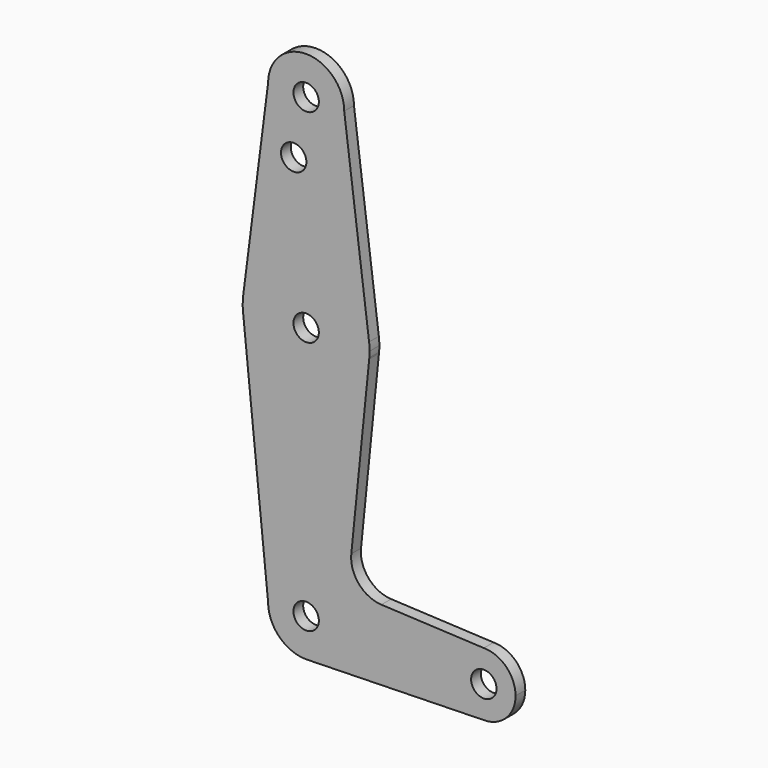
from build123d import *

# Parameters (mm, degrees)
F0_R     = 3.175
F1_DEPTH = 3.048


with BuildPart() as f1:
    # F0 (on Front) → F1 (new body)
    with BuildSketch(Plane.XZ):
        with BuildLine():
            Line((-16.87812, 3.462276), (-23.100576, 52.253986))
            ThreePointArc((-23.100576, 52.253986), (-32.625576, 42.728986), (-42.150576, 52.253986))
            Line((-42.150576, 52.253986), (-48.373033, 3.462276))
            ThreePointArc((-48.373033, 3.462276), (-32.625576, 17.328986), (-16.87812, 3.462276))
        make_face()
        with Locations((-35.746564, 37.984604)):
            Circle(F0_R, mode=Mode.SUBTRACT)
        with BuildLine():
            ThreePointArc((-42.150576, 52.253986), (-32.625576, 42.728986), (-23.100576, 52.253986))
            ThreePointArc((-23.100576, 52.253986), (-32.625576, 61.778986), (-42.150576, 52.253986))
        make_face()
        with Locations((-32.625576, 52.253986)):
            Circle(F0_R, mode=Mode.SUBTRACT)
        with BuildLine():
            ThreePointArc((-16.750576, 1.453986), (-16.782494, 2.460154), (-16.87812, 3.462276))
            ThreePointArc((-16.87812, 3.462276), (-32.625576, 17.328986), (-48.373033, 3.462276))
            ThreePointArc((-48.373033, 3.462276), (-48.499244, 1.659653), (-48.419779, -0.145635))
            ThreePointArc((-48.419779, -0.145635), (-32.695877, -14.420858), (-16.846161, -0.285457))
            Line((-16.846161, -0.285457), (-16.817302, 0))
            ThreePointArc((-16.817302, 0), (-16.767267, 0.726228), (-16.750576, 1.453986))
        make_face()
        with Locations((-32.625576, 1.453986)):
            Circle(F0_R, mode=Mode.SUBTRACT)
        with BuildLine():
            ThreePointArc((-16.846161, -0.285457), (-32.695877, -14.420858), (-48.419779, -0.145635))
            Line((-48.419779, -0.145635), (-42.150576, -62.046014))
            ThreePointArc((-42.150576, -62.046014), (-32.625576, -52.521014), (-23.100576, -62.046014))
            ThreePointArc((-23.100576, -62.046014), (-25.730464, -68.617395), (-32.167884, -71.560011))
            Line((-32.167884, -71.560011), (11.824424, -70.502447))
            ThreePointArc((11.824424, -70.502447), (3.886924, -62.564947), (11.824424, -54.627447))
            Line((11.824424, -54.627447), (-13.799985, -53.413136))
            ThreePointArc((-13.799985, -53.413136), (-19.445815, -50.662156), (-21.333537, -44.672181))
            Line((-21.333537, -44.672181), (-16.846161, -0.285457))
        make_face()
        with BuildLine():
            ThreePointArc((-23.100576, -62.046014), (-32.625576, -52.521014), (-42.150576, -62.046014))
            ThreePointArc((-42.150576, -62.046014), (-39.360769, -68.781206), (-32.625576, -71.571014))
            Line((-32.625576, -71.571014), (-32.167884, -71.560011))
            ThreePointArc((-32.167884, -71.560011), (-25.730464, -68.617395), (-23.100576, -62.046014))
        make_face()
        with Locations((-32.625576, -62.046014)):
            Circle(F0_R, mode=Mode.SUBTRACT)
        with BuildLine():
            ThreePointArc((19.761924, -62.564947), (17.437084, -56.952287), (11.824424, -54.627447))
            ThreePointArc((11.824424, -54.627447), (3.886924, -62.564947), (11.824424, -70.502447))
            ThreePointArc((11.824424, -70.502447), (17.437084, -68.177607), (19.761924, -62.564947))
        make_face()
        with Locations((11.824424, -62.564947)):
            Circle(F0_R, mode=Mode.SUBTRACT)
    extrude(amount=F1_DEPTH)


solid = f1.part
